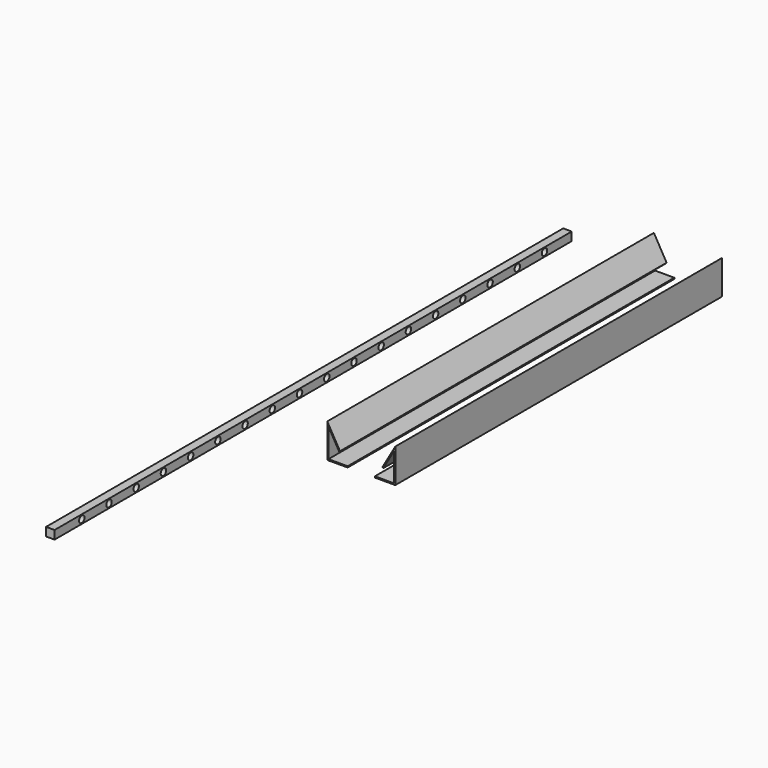
from build123d import *

# Parameters (mm, degrees)
F1_DEPTH = 304.8
F2_W     = 6.35
F2_H     = 6.35
F3_DEPTH = 482.6
F4_R     = 2.54
F5_DEPTH = 6.35


with BuildPart() as f1:
    # F0 (on Front) → F1 (new body)
    with BuildSketch(Plane.XZ):
        Polygon((0, 25.4), (0, 0), (15.24, 0), (15.24, 0.889), (0.889, 0.889), (0.889, 22.204766), (8.970346, 8.207464), (9.525, 8.902216), align=None)
    extrude(amount=F1_DEPTH)


with BuildPart() as f3:
    # F2 (on Front) → F3 (new body)
    with BuildSketch(Plane.XZ):
        with Locations((-64.502652, 3.175)):
            Rectangle(F2_W, F2_H)
    extrude(amount=F3_DEPTH)

    # F4 (on face) → F5 (cut)
    with BuildSketch(Plane(origin=(-67.677652, 0, 0), x_dir=(0, -1, 0), z_dir=(-1, 0, 0))):
        with Locations((25.4, 3.175)):
            Circle(F4_R)
        with Locations((50.8, 3.175)):
            Circle(F4_R)
        with Locations((76.2, 3.175)):
            Circle(F4_R)
        with Locations((101.6, 3.175)):
            Circle(F4_R)
        with Locations((127, 3.175)):
            Circle(F4_R)
        with Locations((152.4, 3.175)):
            Circle(F4_R)
        with Locations((177.8, 3.175)):
            Circle(F4_R)
        with Locations((203.2, 3.175)):
            Circle(F4_R)
        with Locations((228.6, 3.175)):
            Circle(F4_R)
        with Locations((254, 3.175)):
            Circle(F4_R)
        with Locations((279.4, 3.175)):
            Circle(F4_R)
        with Locations((304.8, 3.175)):
            Circle(F4_R)
        with Locations((330.2, 3.175)):
            Circle(F4_R)
        with Locations((355.6, 3.175)):
            Circle(F4_R)
        with Locations((381, 3.175)):
            Circle(F4_R)
        with Locations((406.4, 3.175)):
            Circle(F4_R)
        with Locations((431.8, 3.175)):
            Circle(F4_R)
        with Locations((457.2, 3.175)):
            Circle(F4_R)
    extrude(amount=-F5_DEPTH, mode=Mode.SUBTRACT)


with BuildPart() as f7_1:
    # F7: instance of F1
    add(f1.part.mirror(Plane.YZ.offset(25.4)))


solid = Compound([f1.part, f3.part, f7_1.part])
